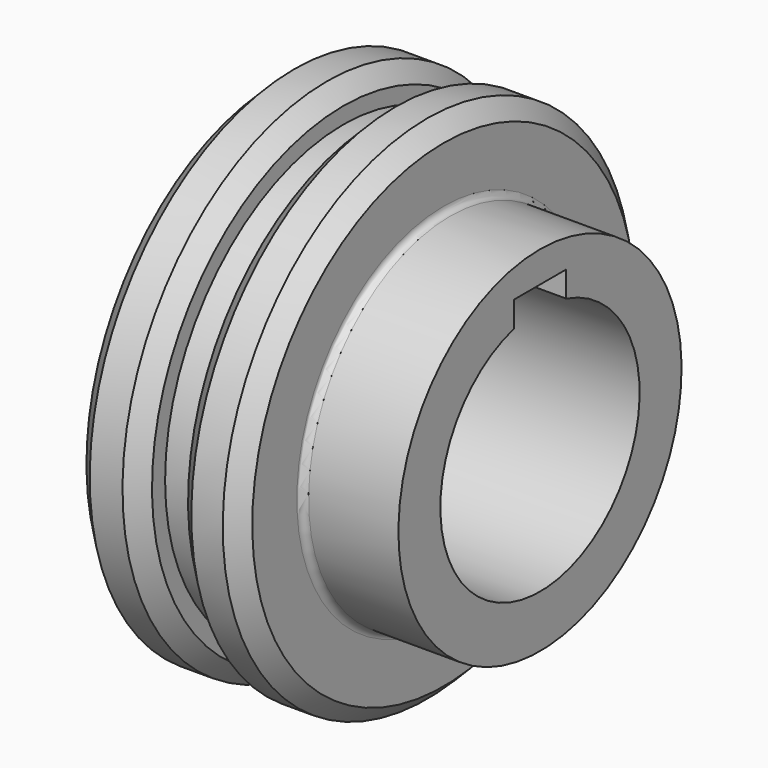
from build123d import *

# Parameters (mm, degrees)
F2_SIZE  = 2.5
F3_W     = 10
F3_H     = 9
F4_DEPTH = 40.001
F5_R     = 1


with BuildPart() as f1:
    # F0 (on Front) → F1 (revolve)
    with BuildSketch(Plane.XZ):
        Polygon((10, 39), (0, 39), (0, 19), (40, 19), (40, 27), (25.3, 27), (25.3, 39), (15.5, 39), (15.5, 34), (10, 34), align=None)
    revolve(axis=Axis((29.337285, 0, 0), (1, 0, 0)))

    # F2
    f2_edges = [f1.edges().sort_by_distance(p)[0] for p in [
        (0, 0, -39),
        (10, 0, -39),
        (15.5, 0, -39),
        (25.3, 0, -39),
    ]]
    chamfer(f2_edges, length=F2_SIZE)

    # F3 (on Right) → F4 (cut, through all)
    with BuildSketch(Plane.YZ):
        with Locations((0, 17.75)):
            Rectangle(F3_W, F3_H)
    extrude(amount=F4_DEPTH, mode=Mode.SUBTRACT)

    # F5
    f5_edges = [f1.edges().sort_by_distance(p)[0] for p in [
        (25.3, 0, -27),
    ]]
    fillet(f5_edges, radius=F5_R)


solid = f1.part
